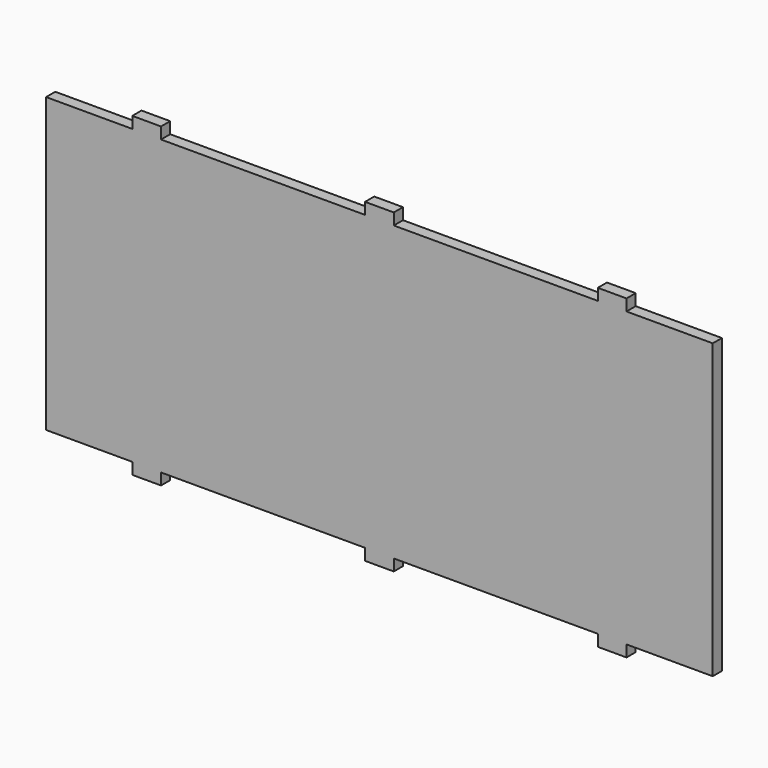
from build123d import *

# Parameters (mm, degrees)
F1_DEPTH = 4


with BuildPart() as f1:
    # F0 (on Front) → F1 (new body)
    with BuildSketch(Plane.XZ):
        Polygon((-86, 51), (-116, 51), (-116, -51), (-86, -51), (-86, -55), (-76, -55), (-76, -51), (-5, -51), (-5, -55), (5, -55), (5, -51), (76, -51), (76, -55), (86, -55), (86, -51), (116, -51), (116, 51), (86, 51), (86, 55), (76, 55), (76, 51), (5, 51), (5, 55), (-5, 55), (-5, 51), (-76, 51), (-76, 55), (-86, 55), align=None)
    extrude(amount=F1_DEPTH)


solid = f1.part
